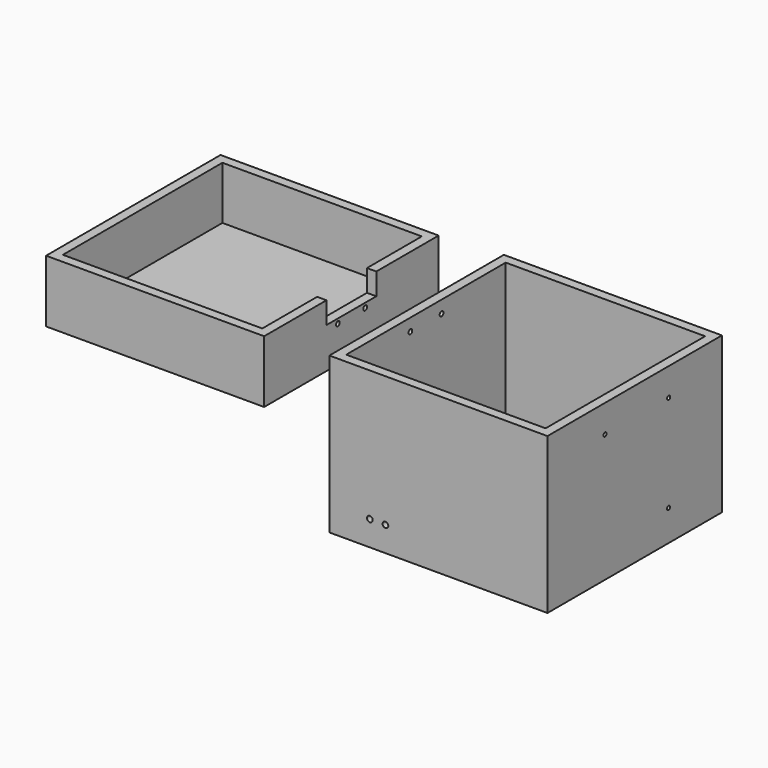
from build123d import *

# Parameters (mm, degrees)
F0_W      = 162.56
F0_H      = 119.38
F1_DEPTH  = 7.62
F2_DEPTH  = 88.9
F4_W      = 162.56
F4_H      = 43.18
F5_DEPTH  = 7.62
F6_DEPTH  = 88.9
F8_R      = 2.3114
F9_DEPTH  = 25.4
F10_R     = 1.905
F11_DEPTH = 25.4
F12_W     = 50.8
F12_H     = 17.78
F13_DEPTH = 25.4
F12_R     = 1.905
F14_DEPTH = 25.4
F15_R     = 1.5875
F16_DEPTH = 25.4
F17_R     = 1.524
F18_DEPTH = 25.4


with BuildPart() as f1:
    # F0 (on Front) → F1 (new body)
    with BuildSketch(Plane.XZ):
        with Locations((0.263474, -13.725161)):
            Rectangle(F0_W, F0_H)
    extrude(amount=F1_DEPTH)

    # F0 (on Front) → F2 (join)
    with BuildSketch(Plane.XZ):
        Polygon((-81.016526, 45.964839), (-88.636526, 45.964839), (-88.636526, -81.035161), (89.163474, -81.035161), (89.163474, 45.964839), (81.543474, 45.964839), (81.543474, -73.415161), (-81.016526, -73.415161), align=None)
    extrude(amount=F2_DEPTH)

    # F3: F1 across face


with BuildPart() as f1_1:
    add(f1.part)
    add(f1.part.mirror(Plane(origin=(0.263474, -88.9, -40.828819), x_dir=(1, 0, 0), z_dir=(0, -1, 0))))

    # F8 (on face) → F9 (cut)
    with BuildSketch(Plane.XZ.offset(177.8)):
        with Locations((-55.616526, -60.715161)):
            Circle(F8_R)
        with Locations((-42.916526, -60.715161)):
            Circle(F8_R)
    extrude(amount=-F9_DEPTH, mode=Mode.SUBTRACT)

    # F10 (on face) → F11 (cut)
    with BuildSketch(Plane(origin=(-88.636526, 0, 0), x_dir=(0, -1, 0), z_dir=(-1, 0, 0))):
        with Locations((73.025, 35.804839)):
            Circle(F10_R)
        with Locations((104.775, 35.804839)):
            Circle(F10_R)
    extrude(amount=-F11_DEPTH, mode=Mode.SUBTRACT)

    # F15 (on face) → F16 (cut)
    with BuildSketch(Plane.YZ.offset(89.163474)):
        with Locations((-119.255, 23.234042)):
            Circle(F15_R)
        with Locations((-54.255, 23.234042)):
            Circle(F15_R)
        with Locations((-54.385198, -55.723958)):
            Circle(F15_R)
    extrude(amount=-F16_DEPTH, mode=Mode.SUBTRACT)


with BuildPart() as f5:
    # F4 (on Front) → F5 (new body)
    with BuildSketch(Plane.XZ):
        with Locations((-230.714412, 20.921105)):
            Rectangle(F4_W, F4_H)
    extrude(amount=F5_DEPTH)

    # F4 (on Front) → F6 (join)
    with BuildSketch(Plane.XZ):
        Polygon((-311.994412, 42.511105), (-319.614412, 42.511105), (-319.614412, -8.288895), (-141.814412, -8.288895), (-141.814412, 42.511105), (-149.434412, 42.511105), (-149.434412, -0.668895), (-311.994412, -0.668895), align=None)
    extrude(amount=F6_DEPTH)

    # F7: F5 across face


with BuildPart() as f5_1:
    add(f5.part)
    add(f5.part.mirror(Plane(origin=(-230.714412, -88.9, 3.824951), x_dir=(1, 0, 0), z_dir=(0, -1, 0))))

    # F12 (on face) → F13 (cut)
    with BuildSketch(Plane.YZ.offset(-141.814412)):
        with Locations((-88.9, 33.621105)):
            Rectangle(F12_W, F12_H)
    extrude(amount=-F13_DEPTH, mode=Mode.SUBTRACT)

    # F12 (on face) → F14 (cut)
    with BuildSketch(Plane.YZ.offset(-141.814412)):
        with Locations((-102.687311, 20.921105)):
            Circle(F12_R)
        with Locations((-74.863158, 20.921105)):
            Circle(F12_R)
    extrude(amount=-F14_DEPTH, mode=Mode.SUBTRACT)

    # F17 (on face) → F18 (cut)
    with BuildSketch(Plane.XY.offset(-0.668895)):
        with Locations((-178.145485, -148.901001)):
            Circle(F17_R)
        with Locations((-155.920485, -148.901001)):
            Circle(F17_R)
        with Locations((-178.145485, -164.776001)):
            Circle(F17_R)
        with Locations((-155.920485, -164.776001)):
            Circle(F17_R)
    extrude(amount=-F18_DEPTH, mode=Mode.SUBTRACT)


solid = Compound([f1_1.part, f5_1.part])
